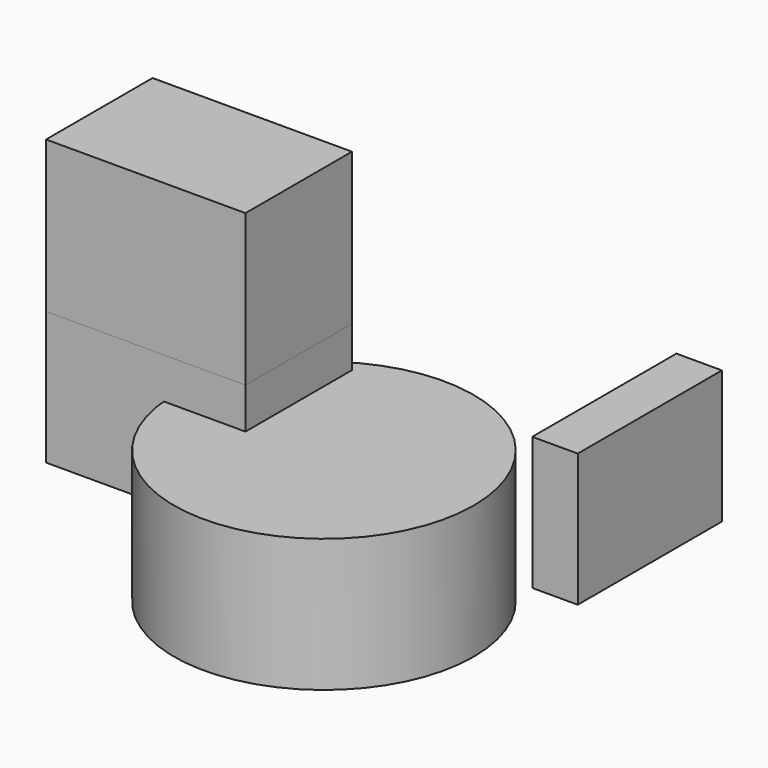
from build123d import *

# Parameters (mm, degrees)
F0_W      = 8.546134
F0_H      = 33.849277
F1_DEPTH  = 25
F2_W      = 37.452027
F2_H      = 28.435953
F3_DEPTH  = 25
F4_R      = 28.142625
F5_DEPTH  = 25
F3_FACE_W = 37.452028
F3_FACE_H = 25
F6_DEPTH  = 25


with BuildPart() as f1:
    # F0 (on Top) → F1 (new body)
    with BuildSketch(Plane.XY):
        with Locations((4.273067, 16.924639)):
            Rectangle(F0_W, F0_H)
    extrude(amount=F1_DEPTH)


with BuildPart() as f3:
    # F2 (on Front) → F3 (new body)
    with BuildSketch(Plane.XZ):
        with Locations((-52.598067, 46.915014)):
            Rectangle(F2_W, F2_H)
    extrude(amount=F3_DEPTH)


with BuildPart() as f5:
    # F4 (on Top) → F5 (new body)
    with BuildSketch(Plane.XY):
        with Locations((-21.198543, -22.428136)):
            Circle(F4_R)
    extrude(amount=F5_DEPTH)


with BuildPart() as f6:
    # F3_face (on face) → F6 (new body)
    with BuildSketch(Plane(origin=(-52.598067, -12.5, 32.697037), x_dir=(1, 0, 0), z_dir=(0, 0, -1))):
        Rectangle(F3_FACE_W, F3_FACE_H)
    extrude(amount=F6_DEPTH)


solid = Compound([f1.part, f3.part, f5.part, f6.part])
